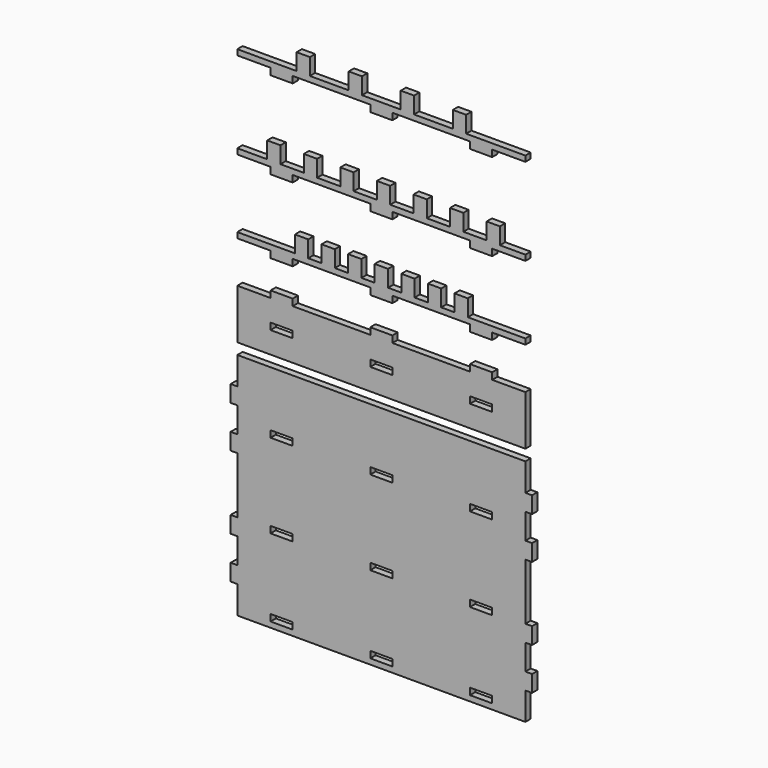
from build123d import *

# Parameters (mm, degrees)
F0_W     = 20
F0_H     = 6
F1_DEPTH = 6
F2_DEPTH = 6
F3_DEPTH = 6
F4_DEPTH = 6


with BuildPart() as f1:
    # F0 (on Front) → F1 (new body)
    with BuildSketch(Plane.XZ):
        Polygon((159.134744, -140.305356), (-100.865256, -140.305356), (-100.865256, -165.305356), (-106.865256, -165.305356), (-106.865256, -180.305356), (-100.865256, -180.305356), (-100.865256, -203.305356), (-106.865256, -203.305356), (-106.865256, -218.305356), (-100.865256, -218.305356), (-100.865256, -267.305356), (-100.865256, -269.305356), (-106.865256, -269.305356), (-106.865256, -284.305356), (-100.865256, -284.305356), (-100.865256, -307.305356), (-106.865256, -307.305356), (-106.865256, -322.305356), (-100.865256, -322.305356), (-100.865256, -347.305356), (159.134744, -347.305356), (159.134744, -322.305356), (165.134744, -322.305356), (165.134744, -307.305356), (159.134744, -307.305356), (159.134744, -284.305356), (165.134744, -284.305356), (165.134744, -269.305356), (159.134744, -269.305356), (159.134744, -267.305356), (159.134744, -218.305356), (165.134744, -218.305356), (165.134744, -203.305356), (159.134744, -203.305356), (159.134744, -180.305356), (165.134744, -180.305356), (165.134744, -165.305356), (159.134744, -165.305356), align=None)
        with Locations((-60.865256, -339.305356)):
            Rectangle(F0_W, F0_H, mode=Mode.SUBTRACT)
        with Locations((-60.865256, -269.305356)):
            Rectangle(F0_W, F0_H, mode=Mode.SUBTRACT)
        with Locations((-60.865256, -193.305356)):
            Rectangle(F0_W, F0_H, mode=Mode.SUBTRACT)
        with Locations((29.134744, -193.305356)):
            Rectangle(F0_W, F0_H, mode=Mode.SUBTRACT)
        with Locations((29.134744, -339.305356)):
            Rectangle(F0_W, F0_H, mode=Mode.SUBTRACT)
        with Locations((29.134744, -269.305356)):
            Rectangle(F0_W, F0_H, mode=Mode.SUBTRACT)
        with Locations((119.134744, -339.305356)):
            Rectangle(F0_W, F0_H, mode=Mode.SUBTRACT)
        with Locations((119.134744, -269.305356)):
            Rectangle(F0_W, F0_H, mode=Mode.SUBTRACT)
        with Locations((119.134744, -193.305356)):
            Rectangle(F0_W, F0_H, mode=Mode.SUBTRACT)
    extrude(amount=F1_DEPTH)


with BuildPart() as f2:
    # F0 (on Front) → F2 (new body)
    with BuildSketch(Plane.XZ):
        Polygon((-70.865256, -85.268589), (-100.865256, -85.268589), (-100.865256, -130.268589), (159.134744, -130.268589), (159.134744, -85.268589), (129.134744, -85.268589), (129.134744, -79.268589), (109.134744, -79.268589), (109.134744, -85.268589), (39.134744, -85.268589), (39.134744, -79.268589), (19.134744, -79.268589), (19.134744, -85.268589), (-50.865256, -85.268589), (-50.865256, -79.268589), (-70.865256, -79.268589), align=None)
        with Locations((-60.865256, -107.768589)):
            Rectangle(F0_W, F0_H, mode=Mode.SUBTRACT)
        with Locations((29.134744, -107.768589)):
            Rectangle(F0_W, F0_H, mode=Mode.SUBTRACT)
        with Locations((119.134744, -107.768589)):
            Rectangle(F0_W, F0_H, mode=Mode.SUBTRACT)
    extrude(amount=F2_DEPTH)


with BuildPart() as f3:
    # F0 (on Front) → F3 (new body)
    with BuildSketch(Plane.XZ):
        Polygon((-47.365256, 117.669165), (-47.365256, 102.669165), (-100.865256, 102.669165), (-100.865256, 97.669165), (-70.865256, 97.669165), (-70.865256, 91.669165), (-50.865256, 91.669165), (-50.865256, 97.669165), (19.134744, 97.669165), (19.134744, 91.669165), (39.134744, 91.669165), (39.134744, 97.669165), (109.134744, 97.669165), (109.134744, 91.669165), (129.134744, 91.669165), (129.134744, 97.669165), (159.134744, 97.669165), (159.134744, 102.669165), (105.634744, 102.669165), (105.634744, 117.669165), (93.634744, 117.669165), (93.634744, 102.669165), (58.634744, 102.669165), (58.634744, 117.669165), (46.634744, 117.669165), (46.634744, 102.669165), (11.634744, 102.669165), (11.634744, 117.669165), (-0.365256, 117.669165), (-0.365256, 102.669165), (-35.365256, 102.669165), (-35.365256, 117.669165), align=None)
    extrude(amount=F3_DEPTH)


with BuildPart() as f4:
    # F0 (on Front) → F4 (new body)
    with BuildSketch(Plane.XZ):
        Polygon((-73.865256, 38.948268), (-73.865256, 23.948268), (-100.865256, 23.948268), (-100.865256, 18.948268), (-70.865256, 18.948268), (-70.865256, 12.948268), (-50.865256, 12.948268), (-50.865256, 18.948268), (19.134744, 18.948268), (19.134744, 12.948268), (39.134744, 12.948268), (39.134744, 18.948268), (109.134744, 18.948268), (109.134744, 12.948268), (129.134744, 12.948268), (129.134744, 18.948268), (159.134744, 18.948268), (159.134744, 23.948268), (136.134744, 23.948268), (136.134744, 38.948268), (124.134744, 38.948268), (124.134744, 23.948268), (103.134744, 23.948268), (103.134744, 38.948268), (91.134744, 38.948268), (91.134744, 23.948268), (70.134744, 23.948268), (70.134744, 38.948268), (58.134744, 38.948268), (58.134744, 23.948268), (37.134744, 23.948268), (37.134744, 38.948268), (25.134744, 38.948268), (25.134744, 23.948268), (4.134744, 23.948268), (4.134744, 38.948268), (-7.865256, 38.948268), (-7.865256, 23.948268), (-28.865256, 23.948268), (-28.865256, 38.948268), (-40.865256, 38.948268), (-40.865256, 23.948268), (-61.865256, 23.948268), (-61.865256, 38.948268), align=None)
        Polygon((-48.865256, -27.654223), (-48.865256, -42.654223), (-100.865256, -42.654223), (-100.865256, -47.654223), (-70.865256, -47.654223), (-70.865256, -53.654223), (-50.865256, -53.654223), (-50.865256, -47.654223), (19.134744, -47.654223), (19.134744, -53.654223), (39.134744, -53.654223), (39.134744, -47.654223), (109.134744, -47.654223), (109.134744, -53.654223), (129.134744, -53.654223), (129.134744, -47.654223), (159.134744, -47.654223), (159.134744, -42.654223), (107.134744, -42.654223), (107.134744, -27.654223), (95.134744, -27.654223), (95.134744, -42.654223), (83.134744, -42.654223), (83.134744, -27.654223), (71.134744, -27.654223), (71.134744, -42.654223), (59.134744, -42.654223), (59.134744, -27.654223), (47.134744, -27.654223), (47.134744, -42.654223), (35.134744, -42.654223), (35.134744, -27.654223), (23.134744, -27.654223), (23.134744, -42.654223), (11.134744, -42.654223), (11.134744, -27.654223), (-0.865256, -27.654223), (-0.865256, -42.654223), (-12.865256, -42.654223), (-12.865256, -27.654223), (-24.865256, -27.654223), (-24.865256, -42.654223), (-36.865256, -42.654223), (-36.865256, -27.654223), align=None)
    extrude(amount=F4_DEPTH)


solid = Compound([f1.part, f2.part, f3.part, f4.part])
